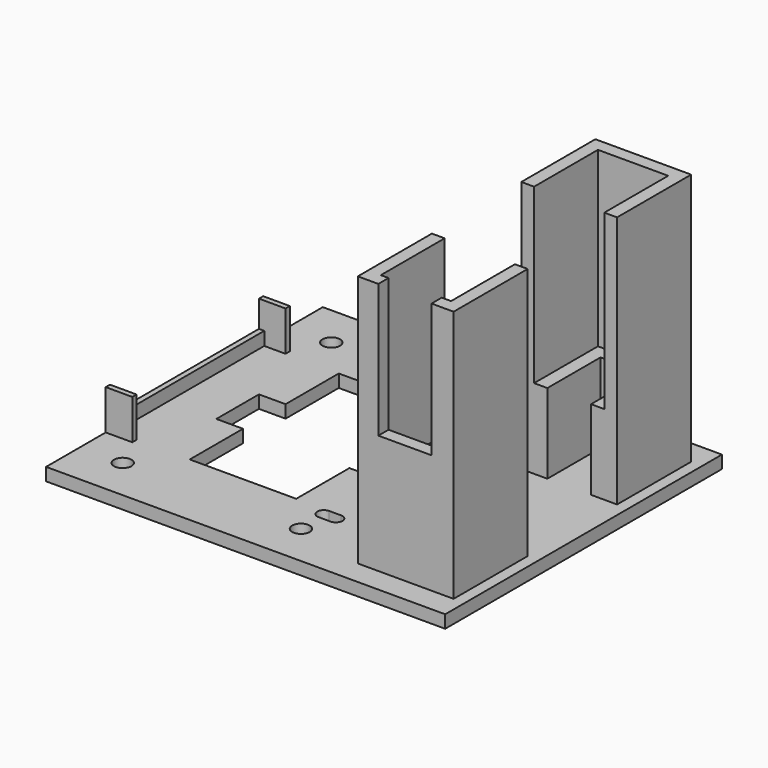
from build123d import *

# Parameters (mm, degrees)
SKETCH_W            = 150
SKETCH_H            = 130
PAD_DEPTH           = 4.8
SKETCH001_R         = 3.3
POCKET_DEPTH        = 4.801
MIRROREDSKETCH_R    = 3.3
POCKET001_DEPTH     = 4.801
MIRROREDSKETCH001_R = 3.3
POCKET002_DEPTH     = 4.801
MIRROREDSKETCH002_R = 3.3
POCKET003_DEPTH     = 4.801
SKETCH002_W         = 2
SKETCH002_H         = 70
PAD001_DEPTH        = 5
SKETCH003_W         = 10
SKETCH003_H         = 2
PAD002_DEPTH        = 15
MIRROREDSKETCH003_W = 10
MIRROREDSKETCH003_H = 2
PAD003_DEPTH        = 15
PAD004_DEPTH        = 15
PAD005_DEPTH        = 15
PAD006_DEPTH        = 95
PAD007_DEPTH        = 95
SKETCH007_W         = 20
SKETCH007_H         = 60
POCKET004_DEPTH     = 5
PAD008_DEPTH        = 30
PAD009_DEPTH        = 30
SKETCH009_W         = 40
SKETCH009_H         = 70
POCKET005_DEPTH     = 4.801
SKETCH010_W         = 70
SKETCH010_H         = 20
POCKET006_DEPTH     = 4.801
POCKET007_DEPTH     = 4.801
POCKET008_DEPTH     = 4.801


with BuildPart() as part:
    # Sketch → Pad (new body)
    with BuildSketch(Plane.XY):
        with Locations((75, 65)):
            Rectangle(SKETCH_W, SKETCH_H)
    extrude(amount=PAD_DEPTH)

    # Sketch001 (on Face6 of Pad) → Pocket (cut, through all)
    with BuildSketch(Plane.XY.offset(4.8)):
        with Locations((16, 16)):
            Circle(SKETCH001_R)
    extrude(amount=-POCKET_DEPTH, mode=Mode.SUBTRACT)

    # MirroredSketch → Pocket001 (cut, through all)
    with BuildSketch(Plane.XY.offset(4.8)):
        with Locations((16, 114)):
            Circle(MIRROREDSKETCH_R)
    extrude(amount=-POCKET001_DEPTH, mode=Mode.SUBTRACT)

    # MirroredSketch001 → Pocket002 (cut, through all)
    with BuildSketch(Plane.XY.offset(4.8)):
        with Locations((83, 16)):
            Circle(MIRROREDSKETCH001_R)
    extrude(amount=-POCKET002_DEPTH, mode=Mode.SUBTRACT)

    # MirroredSketch002 → Pocket003 (cut, through all)
    with BuildSketch(Plane.XY.offset(4.8)):
        with Locations((83, 114)):
            Circle(MIRROREDSKETCH002_R)
    extrude(amount=-POCKET003_DEPTH, mode=Mode.SUBTRACT)

    # Sketch002 (on Face5 of Pocket003) → Pad001 (join)
    with BuildSketch(Plane.XY.offset(4.8)):
        with Locations((1, 65)):
            Rectangle(SKETCH002_W, SKETCH002_H)
    extrude(amount=PAD001_DEPTH)

    # Sketch003 (on Face5 of Pad001) → Pad002 (join)
    with BuildSketch(Plane.XY.offset(4.8)):
        with Locations((5, 29)):
            Rectangle(SKETCH003_W, SKETCH003_H)
    extrude(amount=PAD002_DEPTH)

    # MirroredSketch003 → Pad003 (join)
    with BuildSketch(Plane.XY.offset(4.8)):
        with Locations((5, 101)):
            Rectangle(MIRROREDSKETCH003_W, MIRROREDSKETCH003_H)
    extrude(amount=PAD003_DEPTH)

    # Sketch004 (on Face5 of Pad003) → Pad004 (join)
    with BuildSketch(Plane.XY.offset(4.8)):
        Polygon((96.4, 100), (96.4, 102), (106.4, 102), (106.4, 87), (104.4, 87), (104.4, 100), align=None)
    extrude(amount=PAD004_DEPTH)

    # Sketch005 (on Face5 of Pad004) → Pad005 (join)
    with BuildSketch(Plane.XY.offset(4.8)):
        Polygon((96.4, 30), (104.4, 30), (104.4, 43), (106.4, 43), (106.4, 28), (96.4, 28), align=None)
    extrude(amount=PAD005_DEPTH)

    # Sketch006 (on Face5 of Pad005) → Pad006 (join)
    with BuildSketch(Plane.XY.offset(4.8)):
        Polygon((109.8, 86), (109.8, 120.8), (145.8, 120.8), (145.8, 86), (141, 86), (141, 116), (114.6, 116), (114.6, 86), align=None)
    extrude(amount=PAD006_DEPTH)

    # MirroredSketch005 → Pad007 (join)
    with BuildSketch(Plane.XY.offset(4.8)):
        Polygon((145.8, 44), (145.8, 9.2), (109.8, 9.2), (109.8, 44), (114.6, 44), (114.6, 14), (141, 14), (141, 44), align=None)
    extrude(amount=PAD007_DEPTH)

    # Sketch007 (on Face33 of Pad007) → Pocket004 (cut)
    with BuildSketch(Plane.XZ.offset(-9.2)):
        with Locations((127.5, 79.6)):
            Rectangle(SKETCH007_W, SKETCH007_H)
    extrude(amount=-POCKET004_DEPTH, mode=Mode.SUBTRACT)

    # Sketch008 (on Face5 of Pocket004) → Pad008 (join)
    with BuildSketch(Plane.XY.offset(4.8)):
        Polygon((114.6, 86), (119.6, 86), (119.6, 111), (136, 111), (136, 86), (141, 86), (141, 116), (114.6, 116), align=None)
    extrude(amount=PAD008_DEPTH)

    # MirroredSketch006 → Pad009 (join)
    with BuildSketch(Plane.XY.offset(4.8)):
        Polygon((114.6, 44), (119.6, 44), (119.6, 19), (136, 19), (136, 44), (141, 44), (141, 14), (114.6, 14), align=None)
    extrude(amount=PAD009_DEPTH)

    # Sketch009 (on Face5 of Pad009) → Pocket005 (cut, through all)
    with BuildSketch(Plane.XY.offset(4.8)):
        with Locations((50, 65)):
            Rectangle(SKETCH009_W, SKETCH009_H)
    extrude(amount=-POCKET005_DEPTH, mode=Mode.SUBTRACT)

    # Sketch010 (on Face5 of Pocket005) → Pocket006 (cut, through all)
    with BuildSketch(Plane.XY.offset(4.8)):
        with Locations((55, 65)):
            Rectangle(SKETCH010_W, SKETCH010_H)
    extrude(amount=-POCKET006_DEPTH, mode=Mode.SUBTRACT)

    # Sketch011 (on Face5 of Pocket006) → Pocket007 (cut, through all)
    with BuildSketch(Plane.XY.offset(4.8)):
        with BuildLine():
            ThreePointArc((82.4, 30), (79.9, 27.5), (82.4, 25))
            Line((82.4, 25), (86.9, 25))
            ThreePointArc((86.9, 25), (89.4, 27.5), (86.9, 30))
            Line((82.4, 30), (86.9, 30))
        make_face()
    extrude(amount=-POCKET007_DEPTH, mode=Mode.SUBTRACT)

    # MirroredSketch007 → Pocket008 (cut, through all)
    with BuildSketch(Plane.XY.offset(4.8)):
        with BuildLine():
            ThreePointArc((82.4, 105), (79.9, 102.5), (82.4, 100))
            Line((82.4, 100), (86.9, 100))
            ThreePointArc((86.9, 100), (89.4, 102.5), (86.9, 105))
            Line((82.4, 105), (86.9, 105))
        make_face()
    extrude(amount=-POCKET008_DEPTH, mode=Mode.SUBTRACT)


solid = part.part
